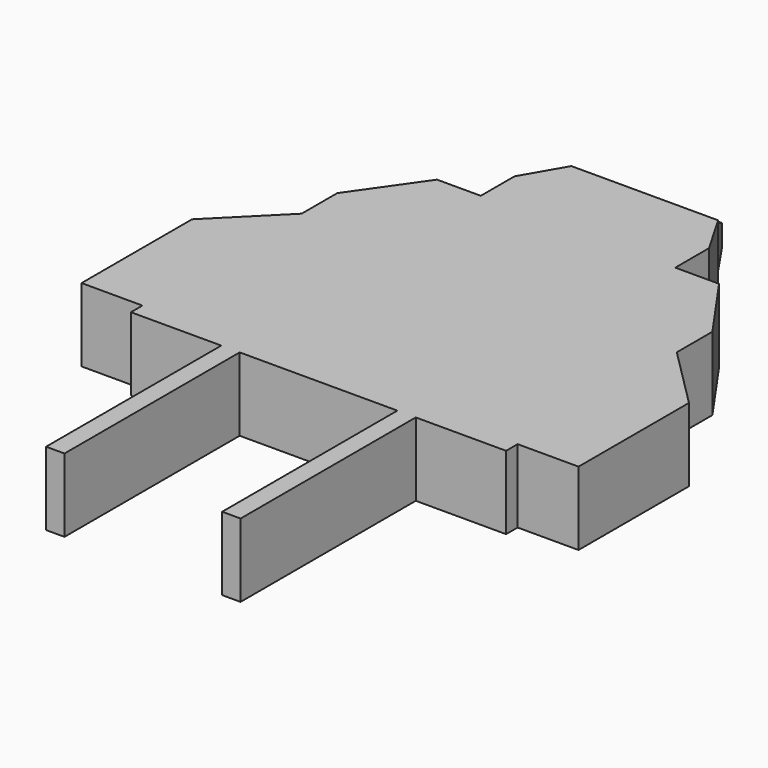
from build123d import *

# Parameters (mm, degrees)
F1_DEPTH = 50
F2_W     = 88.2
F2_H     = 38.2
F2_W_2   = 43.121268
F2_H_2   = 15.88
F3_DEPTH = 25
F4_SIZE2 = 11.547005
F4_SIZE  = 20


with BuildPart() as f1:
    # F0 (on Top) → F1 (new body)
    with BuildSketch(Plane.XY):
        Polygon((50, 218.464008), (0, 218.464008), (-50, 218.464008), (-66.227116, 190.357819), (-66.227116, 161.646203), (-66.227116, 0), (-66.227116, -59.276793), (-66.227116, -208.420123), (-53.694672, -208.420123), (-53.694672, -59.276793), (0, -59.276793), (53.694672, -59.276793), (53.694672, -208.420123), (66.227116, -208.420123), (66.227116, -59.276793), (66.227116, 0), (66.227116, 161.646203), (66.227116, 190.357819), align=None)
        Polygon((-66.227116, 0), (-66.227116, 161.646203), (-96.047964, 161.646203), (-127.75892, 116.358264), (-127.75892, 86.03783), (-127.75892, -49.467381), (-127.75892, -59.276793), (-66.227116, -59.276793), align=None)
        Polygon((-127.75892, -49.467381), (-127.75892, 86.03783), (-169.235751, 44.560999), (-169.235751, -49.467381), align=None)
        Polygon((96.047964, 161.646203), (66.227116, 161.646203), (66.227116, 0), (66.227116, -59.276793), (127.75892, -59.276793), (127.75892, -49.467381), (127.75892, 86.03783), (127.75892, 116.358264), align=None)
        Polygon((169.235751, 44.560999), (127.75892, 86.03783), (127.75892, -49.467381), (169.235751, -49.467381), align=None)
    extrude(amount=-F1_DEPTH)

    # F2 (on face) → F3 (join)
    with BuildSketch(Plane(origin=(0, 218.464008, 0), x_dir=(-1, 0, 0), z_dir=(0, 1, 0))):
        with Locations((0, -25)):
            Rectangle(F2_W, F2_H)
        with Locations((0, -25)):
            Rectangle(F2_W_2, F2_H_2, mode=Mode.SUBTRACT)
        with Locations((0, -25)):
            Rectangle(F2_W_2, F2_H_2)
    extrude(amount=F3_DEPTH)

    # F4
    f4_edges = [f1.edges().sort_by_distance(p)[0] for p in [
        (-44.1, 243.464008, -25),
        (0, 243.464008, -5.9),
        (44.1, 243.464008, -25),
        (0, 243.464008, -44.1),
    ]]
    chamfer(f4_edges, length=F4_SIZE, length2=F4_SIZE2)


solid = f1.part
